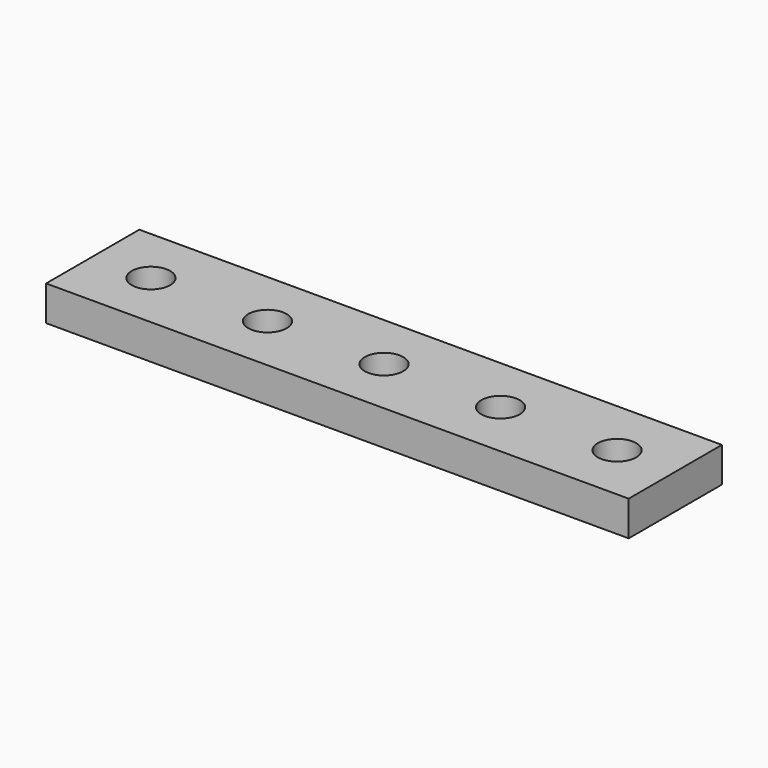
from build123d import *

# Parameters (mm, degrees)
SKETCH_W      = 50
SKETCH_H      = 10
SKETCH_R      = 1.65
EXTRUDE_DEPTH = 3


with BuildPart() as part:
    # Sketch → Extrude (new body)
    with BuildSketch(Plane.XY):
        Rectangle(SKETCH_W, SKETCH_H)
        Circle(SKETCH_R, mode=Mode.SUBTRACT)
        with Locations((-10, 0)):
            Circle(SKETCH_R, mode=Mode.SUBTRACT)
        with Locations((10, 0)):
            Circle(SKETCH_R, mode=Mode.SUBTRACT)
        with Locations((-20, 0)):
            Circle(SKETCH_R, mode=Mode.SUBTRACT)
        with Locations((20, 0)):
            Circle(SKETCH_R, mode=Mode.SUBTRACT)
    extrude(amount=EXTRUDE_DEPTH)


solid = part.part
